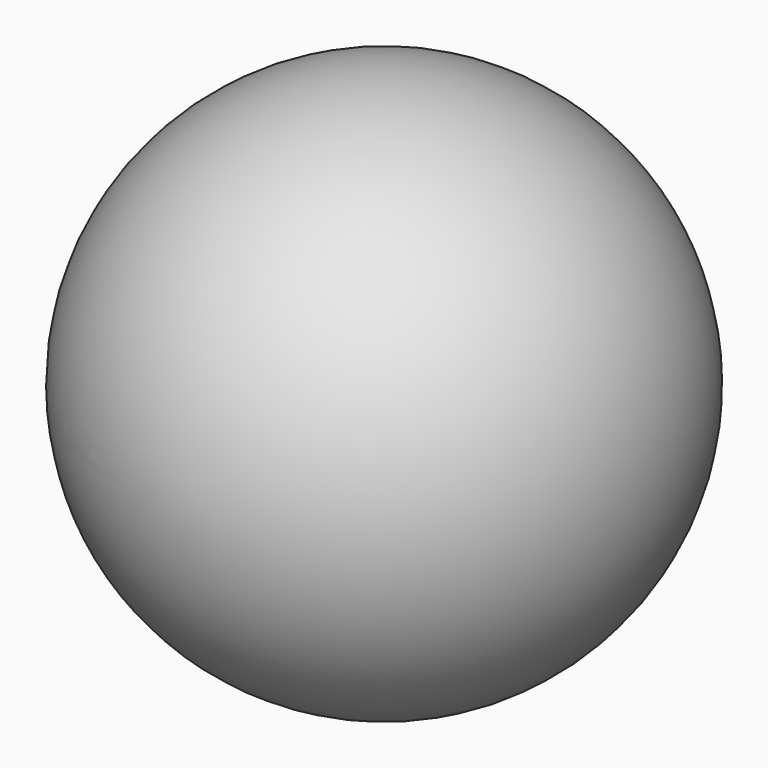
from build123d import *


with BuildPart() as f1:
    # F0 (on Top) → F1 (revolve)
    with BuildSketch(Plane.XY):
        with BuildLine():
            Line((0, -127), (0, 0))
            Line((0, 0), (0, 127))
            ThreePointArc((0, 127), (-127, 0), (0, -127))
        make_face()
    revolve(axis=Axis((0, -63.5, 0), (0, -1, 0)))


solid = f1.part
